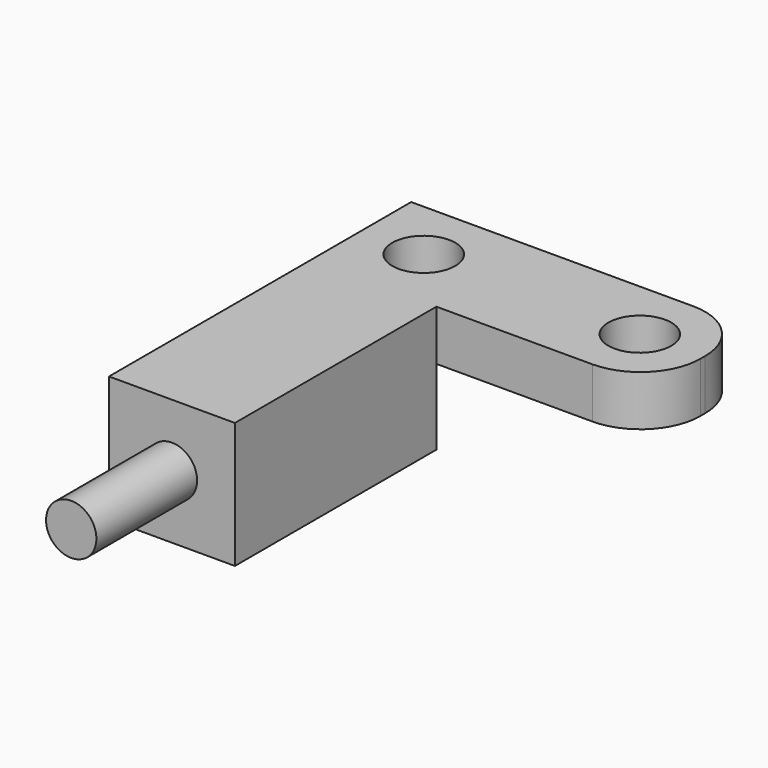
from build123d import *

# Parameters (mm, degrees)
PAD030_DEPTH    = 2
SKETCH055_R     = 1.25
POCKET015_DEPTH = 2
FILLET004_R     = 2.380952
SKETCH056_W     = 5
SKETCH056_H     = 10
PAD031_DEPTH    = 3
SKETCH057_R     = 1
PAD032_DEPTH    = 5


with BuildPart() as part:
    # Sketch054 → Pad030 (new body)
    with BuildSketch(Plane.XY):
        Polygon((11.08, 6.9), (11.08, 1.9), (2.5, 1.9), (2.5, -8.1), (-2.5, -8.1), (-2.5, 6.9), align=None)
    extrude(amount=-PAD030_DEPTH)

    # Sketch055 (on Face8 of Pad030) → Pocket015 (cut)
    with BuildSketch(Plane(origin=(0, 0, -2), x_dir=(1, 0, 0), z_dir=(0, 0, -1))):
        with Locations((0, -4.4)):
            Circle(SKETCH055_R)
        with Locations((8.58, -4.4)):
            Circle(SKETCH055_R)
    extrude(amount=-POCKET015_DEPTH, mode=Mode.SUBTRACT)

    # Fillet004
    fillet004_edges = [part.edges().sort_by_distance(p)[0] for p in [
        (11.08, 1.9, -1),
        (11.08, 6.9, -1),
    ]]
    fillet(fillet004_edges, radius=FILLET004_R)

    # Sketch056 (on Face5 of Fillet004) → Pad031 (join)
    with BuildSketch(Plane(origin=(0, 0, -2), x_dir=(1, 0, 0), z_dir=(0, 0, -1))):
        with Locations((0, 3.1)):
            Rectangle(SKETCH056_W, SKETCH056_H)
    extrude(amount=PAD031_DEPTH)

    # Sketch057 (on Face16 of Pad031) → Pad032 (join)
    with BuildSketch(Plane.XZ.offset(8.1)):
        with Locations((0, -2.5)):
            Circle(SKETCH057_R)
    extrude(amount=PAD032_DEPTH)


with BuildPart() as part_1:
    # Body012 placement: moved
    add(part.part.moved(Location((119.92, -86.1, 8.25))))


solid = part_1.part
